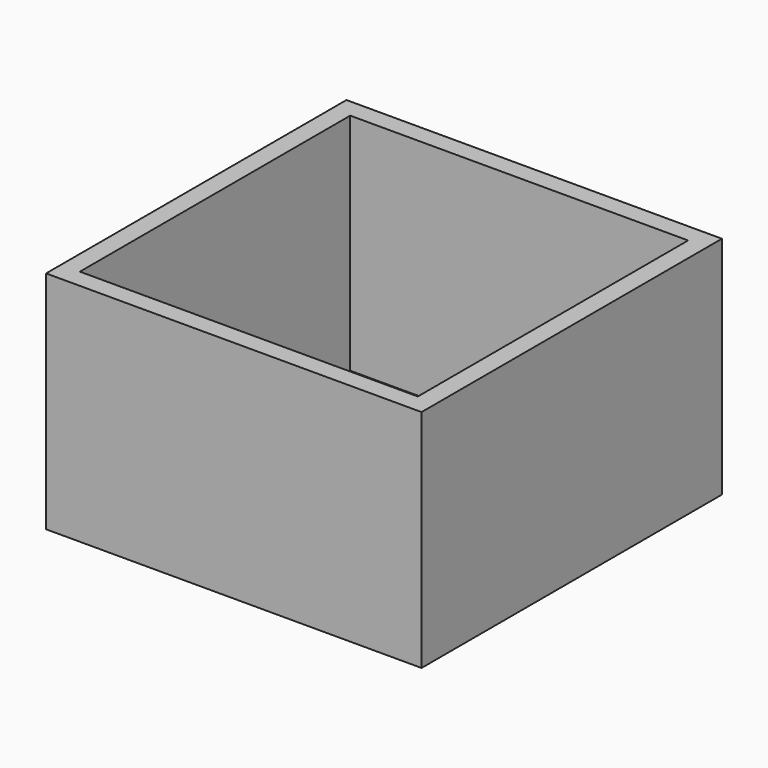
from build123d import *

# Parameters (mm, degrees)
F1_DEPTH = 152.4
F3_DEPTH = 151.892


with BuildPart() as f1:
    # F0 (on Top) → F1 (new body)
    with BuildSketch(Plane.XY):
        Polygon((127, 0), (0, 0), (-127, 0), (-127, -127), (127, -127), align=None)
        Polygon((-127, 0), (0, 0), (127, 0), (127, 127), (-127, 127), align=None)
    extrude(amount=F1_DEPTH)

    # F2 (on face) → F3 (cut)
    with BuildSketch(Plane.XY.offset(152.4)):
        Polygon((114.3, 0), (0, 0), (-114.3, 0), (-114.3, -114.3), (114.3, -114.3), align=None)
        Polygon((-114.3, 0), (0, 0), (114.3, 0), (114.3, 114.3), (-114.3, 114.3), align=None)
    extrude(amount=-F3_DEPTH, mode=Mode.SUBTRACT)


solid = f1.part
